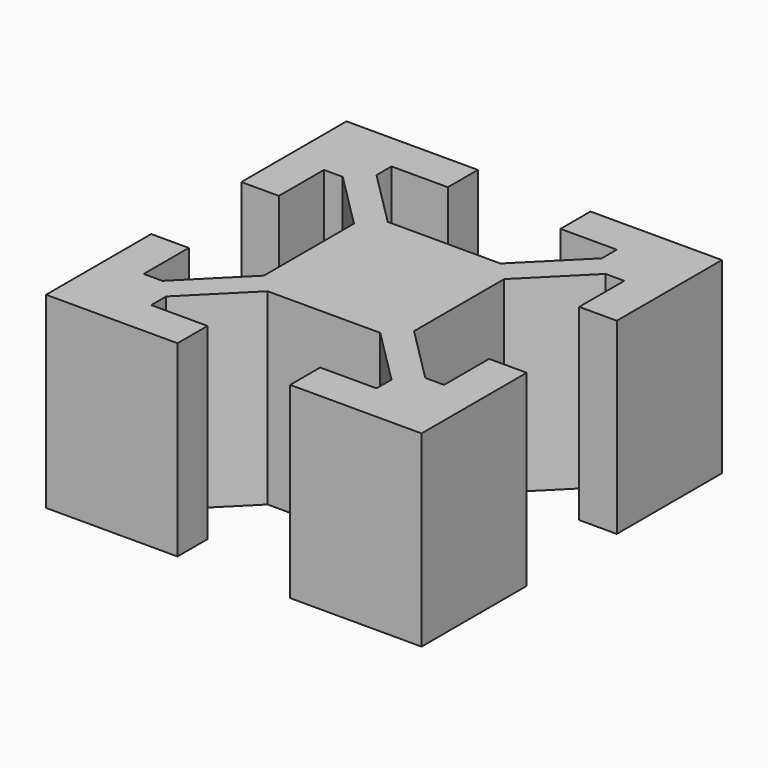
from build123d import *

# Parameters (mm, degrees)
PAD_DEPTH    = 10
SKETCH001_R  = 2
POCKET_DEPTH = 4.001


with BuildPart() as change_me_for_height:
    # Sketch → Pad (new body)
    with BuildSketch(Plane.XY):
        Polygon((-10, 3), (-10, 10), (-3, 10), (-3, 8), (-6, 8), (-6, 7), (-3, 4), (3, 4), (6, 7), (6, 8), (3, 8), (3, 10), (10, 10), (10, 3), (8, 3), (8, 6), (7, 6), (4, 3), (4, 0), (-4, 0), (-4, 3), (-7, 6), (-8, 6), (-8, 3), align=None)
    pad = extrude(amount=PAD_DEPTH)


with BuildPart() as mirrored:
    # Mirrored base: copy of Change_me_for_height
    add(change_me_for_height.part)

    # Mirrored: Pad across Sketch H_Axis
    add(pad.mirror(Plane.ZX))


with BuildPart() as pocket:
    # Fusion base: copy of Change_me_for_height
    add(change_me_for_height.part)

    # Fusion: union Mirrored
    add(mirrored.part)

    # Sketch001 → Pocket (cut, through all)
    with BuildSketch(Plane.XZ.offset(-6)):
        Circle(SKETCH001_R)
    extrude(amount=-POCKET_DEPTH, mode=Mode.SUBTRACT)


solid = pocket.part
